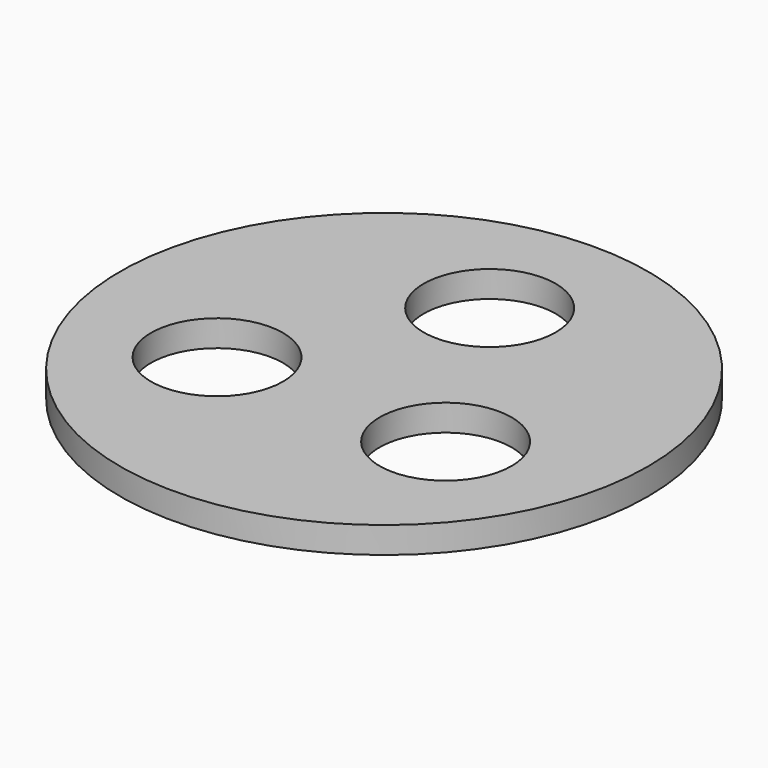
from build123d import *

# Parameters (mm, degrees)
F0_R     = 127
F0_R_2   = 31.75
F1_DEPTH = 12.7


with BuildPart() as f1:
    # F0 (on Top) → F1 (new body)
    with BuildSketch(Plane.XY):
        Circle(F0_R)
        with Locations((-54.992613, -31.75)):
            Circle(F0_R_2, mode=Mode.SUBTRACT)
        with Locations((54.992613, -31.75)):
            Circle(F0_R_2, mode=Mode.SUBTRACT)
        with Locations((0, 63.5)):
            Circle(F0_R_2, mode=Mode.SUBTRACT)
    extrude(amount=F1_DEPTH)


solid = f1.part
